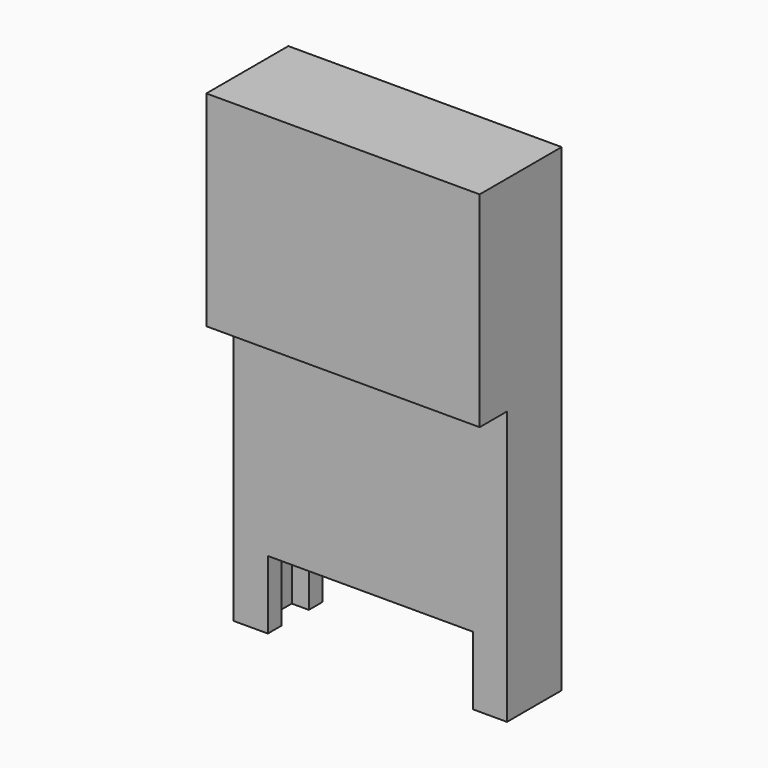
from build123d import *

# Parameters (mm, degrees)
F0_W          = 25.4
F0_H          = 3.175
F1_DEPTH      = 19.05
F3_DEPTH      = 25.4
F3_DEPTH_BACK = 19.05
F4_W          = 25.4
F4_H          = 9.525
F5_DEPTH      = 2.54
F6_W          = 19.05
F6_H          = 1.5875
F7_DEPTH      = 6.35


with BuildPart() as f1:
    # F0 (on Top) → F1 (new body)
    with BuildSketch(Plane.XY):
        with Locations((12.7, 1.5875)):
            Rectangle(F0_W, F0_H)
    extrude(amount=F1_DEPTH)

    # F2 (on face) → F3 (join, two sides)
    with BuildSketch(Plane(origin=(0, 0, 0), x_dir=(1, 0, 0), z_dir=(0, 0, -1))) as f3_sk:
        Polygon((25.4, -9.525), (25.4, -3.175), (0, -3.175), (0, -9.525), (1.5875, -9.525), (3.175, -9.525), (3.175, -7.9375), (1.5875, -7.9375), (1.5875, -4.7625), (23.8125, -4.7625), (23.8125, -7.9375), (22.225, -7.9375), (22.225, -9.525), (23.8125, -9.525), align=None)
    extrude(amount=F3_DEPTH)
    extrude(f3_sk.sketch, amount=-F3_DEPTH_BACK)

    # F4 (on face) → F5 (join)
    with BuildSketch(Plane.XY.offset(19.05)):
        with Locations((12.7, 4.7625)):
            Rectangle(F4_W, F4_H)
    extrude(amount=-F5_DEPTH)

    # F6 (on face) → F7 (cut)
    with BuildSketch(Plane(origin=(0, 0, -25.4), x_dir=(1, 0, 0), z_dir=(0, 0, -1))):
        with Locations((12.7, -3.96875)):
            Rectangle(F6_W, F6_H)
    extrude(amount=-F7_DEPTH, mode=Mode.SUBTRACT)


solid = f1.part
